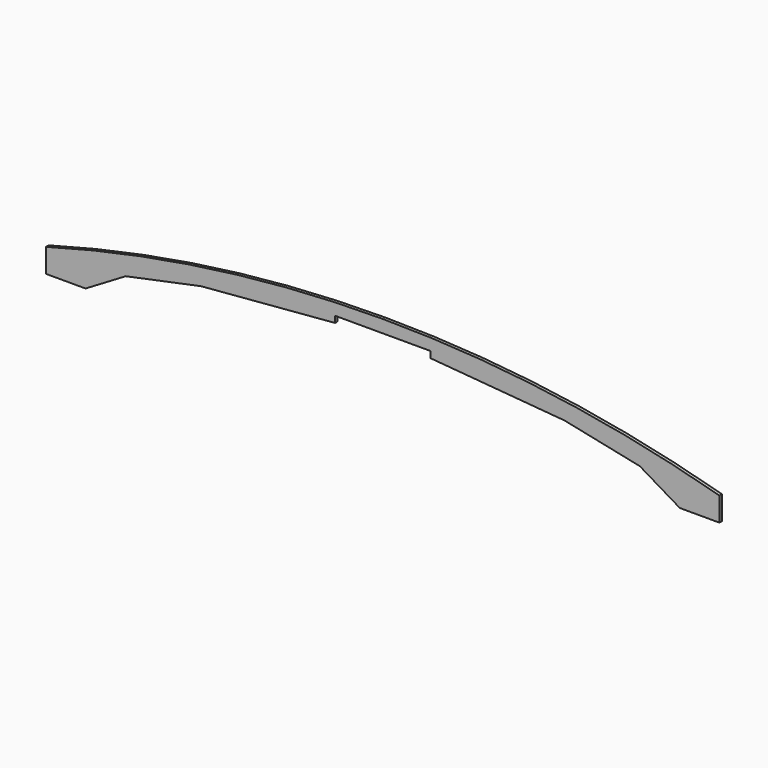
from build123d import *

# Parameters (mm, degrees)
F1_DEPTH = 2.5


with BuildPart() as f1:
    # F0 (on Front) → F1 (new body, symmetric)
    with BuildSketch(Plane.XZ):
        with BuildLine():
            Line((-75, 80), (-75, 90))
            Line((-75, 90), (0, 90))
            Line((0, 90), (0, 110))
            ThreePointArc((0, 110), (-267.462806, 91.809951), (-530, 37.574793))
            Line((-530, 37.574793), (-530, 0))
            Line((-530, 0), (-467.834353, 0))
            Line((-467.834353, 0), (-404.667079, 37.574793))
            Line((-404.667079, 37.574793), (-286.140114, 62.306263))
            Line((-286.140114, 62.306263), (-75, 80))
        make_face()
    extrude(amount=F1_DEPTH, both=True)

    # F2: F1 across plane


with BuildPart() as f1_1:
    add(f1.part)
    add(f1.part.mirror(Plane.YZ))


solid = f1_1.part
